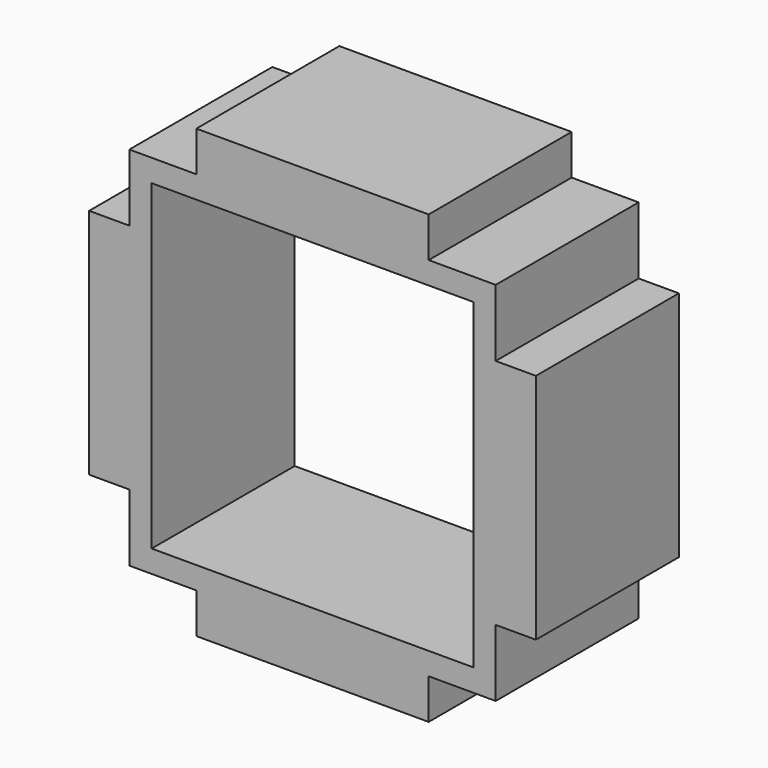
from build123d import *

# Parameters (mm, degrees)
F0_W      = 4.1
F0_H      = 4.1
F1_DEPTH  = 2
F2_W      = 2.6
F2_H      = 2
F3_DEPTH  = 0.45
F4_W      = 2
F4_H      = 2.6
F5_DEPTH  = 0.45
F6_W      = 2.6
F6_H      = 2
F7_DEPTH  = 0.45
F8_W      = 2
F8_H      = 2.6
F9_DEPTH  = 0.45
F10_W     = 1.8
F10_H     = 1.8
F11_DEPTH = 2


with BuildPart() as f1:
    # F0 (on Front) → F1 (new body)
    with BuildSketch(Plane.XZ):
        Rectangle(F0_W, F0_H)
    extrude(amount=F1_DEPTH)

    # F2 (on face) → F3 (join)
    with BuildSketch(Plane(origin=(0, 0, -2.05), x_dir=(1, 0, 0), z_dir=(0, 0, -1))):
        with Locations((0, 1)):
            Rectangle(F2_W, F2_H)
    extrude(amount=F3_DEPTH)

    # F4 (on face) → F5 (join)
    with BuildSketch(Plane(origin=(-2.05, 0, 0), x_dir=(0, -1, 0), z_dir=(-1, 0, 0))):
        with Locations((1, 0)):
            Rectangle(F4_W, F4_H)
    extrude(amount=F5_DEPTH)

    # F6 (on face) → F7 (join)
    with BuildSketch(Plane.XY.offset(2.05)):
        with Locations((0, -1)):
            Rectangle(F6_W, F6_H)
    extrude(amount=F7_DEPTH)

    # F8 (on face) → F9 (join)
    with BuildSketch(Plane.YZ.offset(2.05)):
        with Locations((-1, 0)):
            Rectangle(F8_W, F8_H)
    extrude(amount=F9_DEPTH)

    # F10 (on face) → F11 (cut)
    with BuildSketch(Plane.XZ.offset(2)):
        with Locations((0.9, -0.9)):
            Rectangle(F10_W, F10_H)
        with Locations((0.9, 0.9)):
            Rectangle(F10_W, F10_H)
        with Locations((-0.9, -0.9)):
            Rectangle(F10_W, F10_H)
        with Locations((-0.9, 0.9)):
            Rectangle(F10_W, F10_H)
    extrude(amount=-F11_DEPTH, mode=Mode.SUBTRACT)


solid = f1.part
